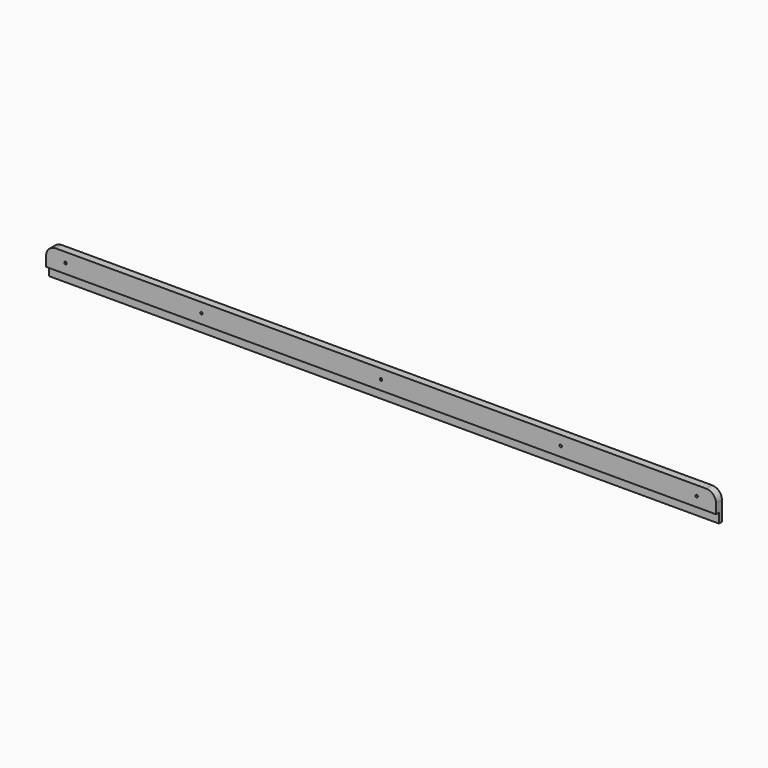
from build123d import *

# Parameters (mm, degrees)
F0_W     = 876.3
F0_H     = 38.1
F1_DEPTH = 9.652
F3_D     = 3.175
F3_DEPTH = 9.652
F4_R     = 12.7
F5_R     = 12.7
F6_W     = 876.3
F6_H     = 12.7
F7_DEPTH = 4.826


with BuildPart() as f1:
    # F0 (on Front) → F1 (new body)
    with BuildSketch(Plane.XZ):
        Rectangle(F0_W, F0_H)
    extrude(amount=F1_DEPTH)

    # F3
    with Locations(Plane(origin=(0, 0, 0), x_dir=(-1, 0, 0), z_dir=(0, 1, 0))):
        with Locations((-412.75, 6.35), (-234.95, 6.35), (0, 6.35), (234.95, 6.35), (412.75, 6.35)):
            Hole(F3_D / 2, depth=F3_DEPTH)

    # F4
    f4_edges = [f1.edges().sort_by_distance(p)[0] for p in [
        (438.15, -4.826, 19.05),
    ]]
    fillet(f4_edges, radius=F4_R)

    # F5
    f5_edges = [f1.edges().sort_by_distance(p)[0] for p in [
        (-438.15, -4.826, 19.05),
    ]]
    fillet(f5_edges, radius=F5_R)

    # F6 (on face) → F7 (cut)
    with BuildSketch(Plane.XZ.offset(9.652)):
        with Locations((0, -12.7)):
            Rectangle(F6_W, F6_H)
    extrude(amount=-F7_DEPTH, mode=Mode.SUBTRACT)


solid = f1.part
